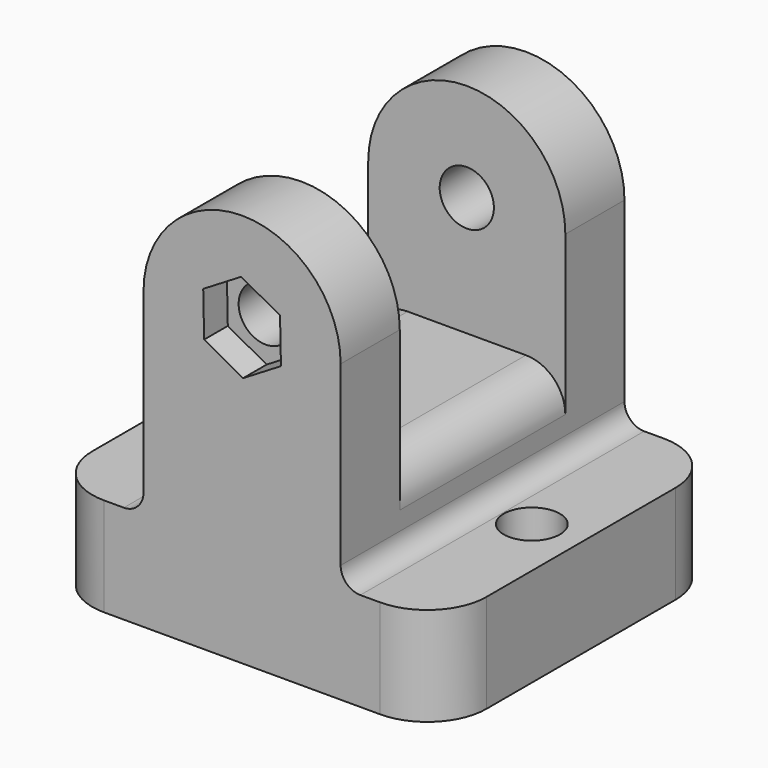
from build123d import *

# Parameters (mm, degrees)
PAD_DEPTH       = 36
SKETCH001_W     = 41.77589
SKETCH001_H     = 44.999783
POCKET_DEPTH    = 10.5
SKETCH002_R     = 2.75
POCKET001_DEPTH = 36.001
FILLET_R        = 4
FILLET001_R     = 2
SKETCH003_R     = 2.85
HOLE_DEPTH      = 16.001
FILLET002_R     = 6
CHAMFER_SIZE    = 2
POCKET002_DEPTH = 3


with BuildPart() as part:
    # Sketch → Pad (new body)
    with BuildSketch(Plane.XZ):
        with BuildLine():
            Line((-20, 0), (20, 0))
            Line((20, 10), (20, 0))
            Line((10, 10), (20, 10))
            Line((10, 30), (10, 10))
            ThreePointArc((10, 30), (0, 40), (-10, 30))
            Line((-10, 10), (-10, 30))
            Line((-20, 10), (-10, 10))
            Line((-20, 0), (-20, 10))
        make_face()
    extrude(amount=PAD_DEPTH)

    # Sketch001 (on DatumPlane) → Pocket (cut, symmetric)
    with BuildSketch(Plane(origin=(0, -18, 0), x_dir=(1, 0, 0), z_dir=(0, 1, 0))):
        with Locations((0.131337, -40.390176)):
            Rectangle(SKETCH001_W, SKETCH001_H)
    extrude(amount=POCKET_DEPTH, both=True, mode=Mode.SUBTRACT)

    # Sketch002 (on Face4 of Pocket) → Pocket001 (cut, through all)
    with BuildSketch(Plane(origin=(0, 0, 0), x_dir=(1, 0, 0), z_dir=(0, 1, 0))):
        with Locations((0, -30)):
            Circle(SKETCH002_R)
    extrude(amount=-POCKET001_DEPTH, mode=Mode.SUBTRACT)

    # Fillet
    fillet_edges = [part.edges().sort_by_distance(p)[0] for p in [
        (10, -18, 17.890285),
        (-10, -18, 17.890285),
    ]]
    fillet(fillet_edges, radius=FILLET_R)

    # Fillet001
    fillet001_edges = [part.edges().sort_by_distance(p)[0] for p in [
        (10, -18, 10),
        (-10, -18, 10),
    ]]
    fillet(fillet001_edges, radius=FILLET001_R)

    # Sketch003 (on DatumPlane) → Hole (cut, through all)
    with BuildSketch(Plane(origin=(0, 0, 16), x_dir=(1, 0, 0), z_dir=(0, 0, -1))):
        with Locations((15, 18)):
            Circle(SKETCH003_R)
        with Locations((-15, 18)):
            Circle(SKETCH003_R)
    extrude(amount=HOLE_DEPTH, mode=Mode.SUBTRACT)

    # Fillet002
    fillet002_edges = [part.edges().sort_by_distance(p)[0] for p in [
        (20, 0, 5),
        (-20, 0, 5),
        (-20, -36, 5),
        (20, -36, 5),
    ]]
    fillet(fillet002_edges, radius=FILLET002_R)

    # Chamfer
    chamfer_edges = [part.edges().sort_by_distance(p)[0] for p in [
        (-2.75, 0, 30),
    ]]
    chamfer(chamfer_edges, length=CHAMFER_SIZE)

    # Sketch004 (on Face15 of Chamfer) → Pocket002 (cut)
    with BuildSketch(Plane.XZ.offset(36)):
        Polygon((-0.093793, 34.5), (-3.944011, 32.168773), (-3.850218, 27.668773), (0.093793, 25.5), (3.944011, 27.831227), (3.850218, 32.331227), align=None)
    extrude(amount=-POCKET002_DEPTH, mode=Mode.SUBTRACT)


solid = part.part
